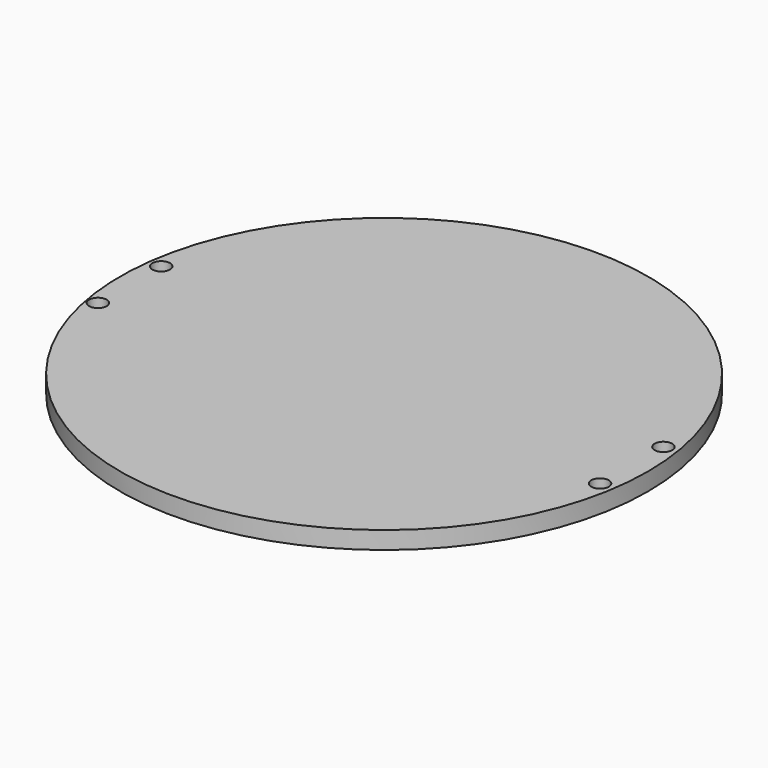
from build123d import *

# Parameters (mm, degrees)
F0_R       = 75
F1_DEPTH   = 5
F5_D       = 5
F5_ON_F2_D = 5


with BuildPart() as f1:
    # F0 (on Top) → F1 (new body)
    with BuildSketch(Plane.XY):
        Circle(F0_R)
    extrude(amount=F1_DEPTH)

    # F3: F1 across plane


with BuildPart() as f1_1:
    add(f1.part)
    add(f1.part.mirror(Plane.YZ))

    # F5 (through all)
    with Locations(Plane(origin=(0, 0, 0), x_dir=(1, 0, 0), z_dir=(0, 0, -1))):
        with Locations((-70.9224045277, -9.4928164221), (-70.9224045277, 13.0071835779)):
            Hole(F5_D / 2)

    # F5 on F2 (through all)
    with Locations(Plane(origin=(0, 0, 0), x_dir=(1, 0, 0), z_dir=(0, 0, -1))):
        with Locations((70.2925920486, -11.3482945785), (70.2925920486, 11.1517054215)):
            Hole(F5_ON_F2_D / 2)


solid = f1_1.part
